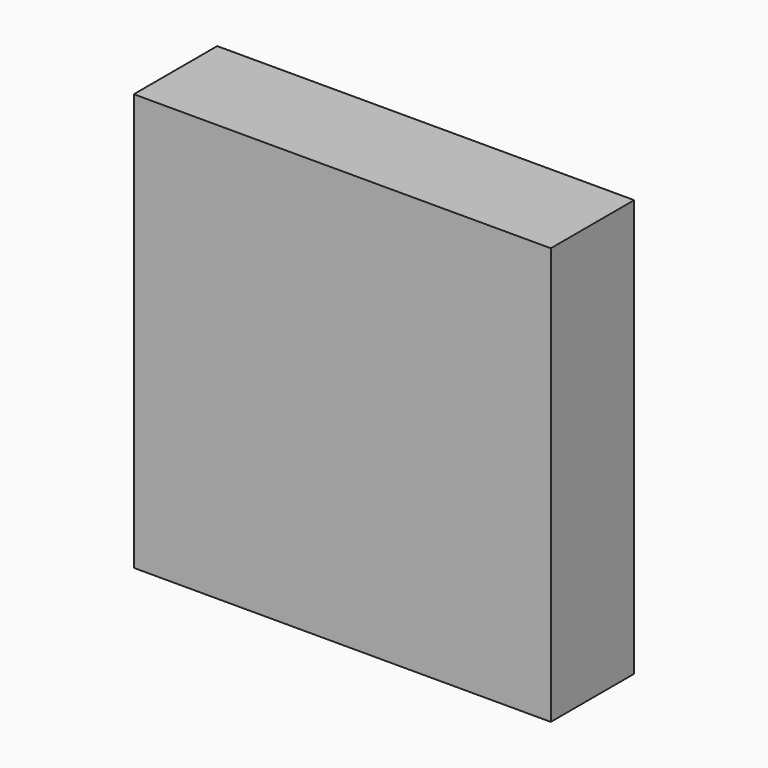
from build123d import *

# Parameters (mm, degrees)
F0_W     = 80
F0_H     = 80
F1_DEPTH = 20
F3_D     = 8
F3_DEPTH = 15
F3_TIP   = 2.4034424761
F5_DEPTH = 10
F7_DEPTH = 5


with BuildPart() as f1:
    # F0 (on Front) → F1 (new body)
    with BuildSketch(Plane.XZ):
        Rectangle(F0_W, F0_H)
    extrude(amount=F1_DEPTH)

    # F3
    with Locations(Plane(origin=(0, 0, 0), x_dir=(-1, 0, 0), z_dir=(0, 1, 0))):
        with Locations((-25, -32), (15, -32)):
            Hole(F3_D / 2, depth=F3_DEPTH)
            with Locations((0, 0, -(F3_DEPTH + F3_TIP / 2))):  # 118° drill point
                Cone(0, F3_D / 2, F3_TIP, mode=Mode.SUBTRACT)

    # F4 (on face) → F5 (cut)
    with BuildSketch(Plane(origin=(0, 0, 0), x_dir=(-1, 0, 0), z_dir=(0, 1, 0))):
        with BuildLine():
            ThreePointArc((25, 25), (22.0710678119, 32.0710678119), (15, 35))
            Line((15, 35), (-25, 35))
            ThreePointArc((-25, 35), (-32.0710678119, 32.0710678119), (-35, 25))
            Line((-35, 25), (-35, -15))
            ThreePointArc((-35, -15), (-32.0710678119, -22.0710678119), (-25, -25))
            Line((-25, -25), (15, -25))
            ThreePointArc((15, -25), (22.0710678119, -22.0710678119), (25, -15))
            Line((25, -15), (25, 25))
        make_face()
    extrude(amount=-F5_DEPTH, mode=Mode.SUBTRACT)

    # F6 (on face) → F7 (cut)
    with BuildSketch(Plane(origin=(0, -10, 0), x_dir=(-1, 0, 0), z_dir=(0, 1, 0))):
        with BuildLine():
            ThreePointArc((-25, -9), (-23.2426406871, -13.2426406871), (-19, -15))
            Line((-19, -15), (9, -15))
            ThreePointArc((9, -15), (13.2426406871, -13.2426406871), (15, -9))
            Line((15, -9), (15, 19))
            ThreePointArc((15, 19), (13.2426406871, 23.2426406871), (9, 25))
            Line((9, 25), (-19, 25))
            ThreePointArc((-19, 25), (-23.2426406871, 23.2426406871), (-25, 19))
            Line((-25, 19), (-25, -9))
        make_face()
    extrude(amount=-F7_DEPTH, mode=Mode.SUBTRACT)


solid = f1.part
